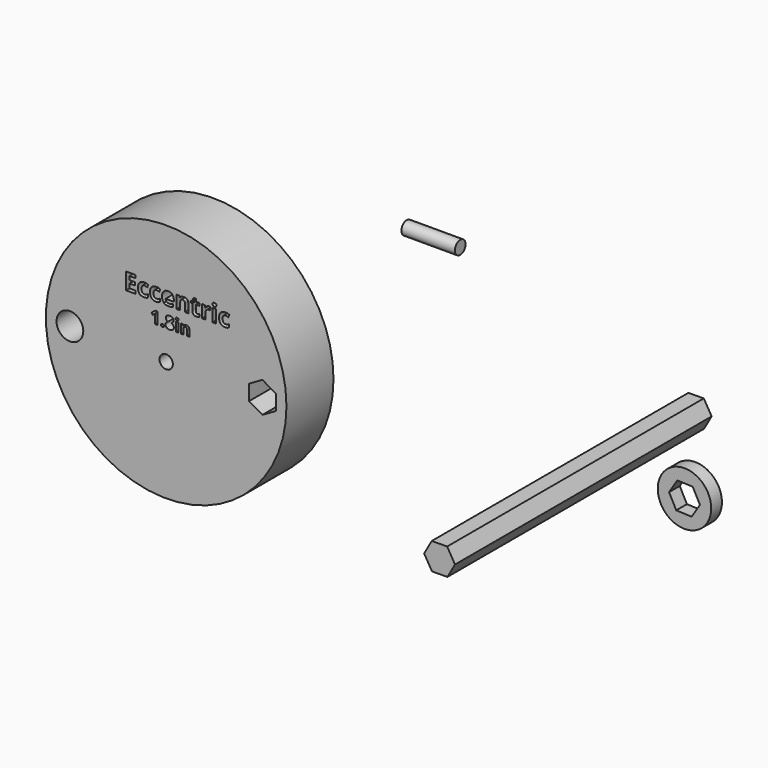
from build123d import *

# Parameters (mm, degrees)
F0_R     = 53.975
F0_R_2   = 3.175
F1_DEPTH = 3.175
F2_R     = 3.175
F3_DEPTH = 25.4
F4_R     = 57.15
F4_R_2   = 6.35
F4_R_3   = 3.175
F4_W     = 1.1925019706
F4_H     = 4.3720901209
F4_W_2   = 1.6525259421
F4_H_2   = 6.0586837794
F5_DEPTH = 27.94
F8_DEPTH = 152.4
F7_R     = 12.7
F9_DEPTH = 6.35


with BuildPart() as f1:
    # F0 (on Front) → F1 (new body)
    with BuildSketch(Plane.XZ):
        Circle(F0_R)
        with Locations((-22.86, -39.594681461)):
            Circle(F0_R_2, mode=Mode.SUBTRACT)
        with Locations((-22.86, 39.594681461)):
            Circle(F0_R_2, mode=Mode.SUBTRACT)
        Circle(F0_R_2, mode=Mode.SUBTRACT)
        with Locations((45.72, 0)):
            Circle(F0_R_2, mode=Mode.SUBTRACT)
    extrude(amount=F1_DEPTH)


with BuildPart() as f3:
    # F2 (on Right) → F3 (new body)
    with BuildSketch(Plane.YZ):
        with Locations((-54.81313169, 63.8662949204)):
            Circle(F2_R)
    extrude(amount=F3_DEPTH)


with BuildPart() as f5:
    # F4 (on Front) → F5 (new body)
    with BuildSketch(Plane.XZ):
        with Locations((-135.7941767349, -47.3413174404)):
            Circle(F4_R)
        with Locations((-181.5141767349, -47.3413174404)):
            Circle(F4_R_2, mode=Mode.SUBTRACT)
        Polygon((-150.3186446369, -22.2737410068), (-150.3186446369, -23.6609611051), (-154.8808647352, -23.6609611051), (-154.8808647352, -15.7382003187), (-150.3186446369, -15.7382003187), (-150.3186446369, -17.1150162662), (-153.2005943911, -17.1150162662), (-153.2005943911, -18.8542434645), (-150.518057526, -18.8542434645), (-150.518057526, -20.2310594121), (-153.2005943911, -20.2310594121), (-153.2005943911, -22.2737410068), align=None, mode=Mode.SUBTRACT)
        with BuildLine():
            Line((-139.948086505, -27.6000433853), (-139.948086505, -33.3172957499))
            Line((-139.948086505, -33.3172957499), (-141.1568555539, -33.3172957499))
            Line((-141.1568555539, -33.3172957499), (-141.1568555539, -30.008822287))
            Line((-141.1568555539, -30.008822287), (-141.1443424168, -29.4657521346))
            Line((-141.1443424168, -29.4657521346), (-141.125572711, -28.8713781199))
            add(Edge.make_bspline(
                [(-141.125572711, -28.8713781199), (-141.4258880027, -29.1716934115), (-141.5435114919, -29.2655419402)],
                knots=[0, 0, 0, 1, 1, 1], degree=2))
            Line((-141.5435114919, -29.2655419402), (-142.2004511924, -29.793596328))
            Line((-142.2004511924, -29.793596328), (-142.7835633837, -29.0665830595))
            Line((-142.7835633837, -29.0665830595), (-140.9416295949, -27.6000433853))
            Line((-140.9416295949, -27.6000433853), (-139.948086505, -27.6000433853))
        make_face(mode=Mode.SUBTRACT)
        with BuildLine():
            add(Edge.make_bspline(
                [(-138.0479666285, -33.2484734956), (-138.2275301467, -33.0745408892), (-138.2275301467, -32.7579585193)],
                knots=[0, 0, 0, 1, 1, 1], degree=2))
            add(Edge.make_bspline(
                [(-138.2275301467, -32.7579585193), (-138.2275301467, -32.4301143259), (-138.0517205697, -32.2618126312)],
                knots=[0, 0, 0, 1, 1, 1], degree=2))
            add(Edge.make_bspline(
                [(-138.0517205697, -32.2618126312), (-137.8759109927, -32.0935109365), (-137.5393076033, -32.0935109365)],
                knots=[0, 0, 0, 1, 1, 1], degree=2))
            add(Edge.make_bspline(
                [(-137.5393076033, -32.0935109365), (-137.2152173511, -32.0935109365), (-137.0375308035, -32.2655665723)],
                knots=[0, 0, 0, 1, 1, 1], degree=2))
            add(Edge.make_bspline(
                [(-137.0375308035, -32.2655665723), (-136.859844256, -32.4376222082), (-136.859844256, -32.7579585193)],
                knots=[0, 0, 0, 1, 1, 1], degree=2))
            add(Edge.make_bspline(
                [(-136.859844256, -32.7579585193), (-136.859844256, -33.0670330069), (-137.0394077741, -33.2447195545)],
                knots=[0, 0, 0, 1, 1, 1], degree=2))
            add(Edge.make_bspline(
                [(-137.0394077741, -33.2447195545), (-137.2189712922, -33.422406102), (-137.5393076033, -33.422406102)],
                knots=[0, 0, 0, 1, 1, 1], degree=2))
            add(Edge.make_bspline(
                [(-137.5393076033, -33.422406102), (-137.8684031104, -33.422406102), (-138.0479666285, -33.2484734956)],
                knots=[0, 0, 0, 1, 1, 1], degree=2))
        make_face(mode=Mode.SUBTRACT)
        with BuildLine():
            add(Edge.make_bspline(
                [(-145.3038439815, -23.6722322684), (-145.7130739105, -23.7702046879), (-146.3355889296, -23.7702046879)],
                knots=[0, 0, 0, 1, 1, 1], degree=2))
            add(Edge.make_bspline(
                [(-146.3355889296, -23.7702046879), (-149.1637839051, -23.7702046879), (-149.1637839051, -20.6645656928)],
                knots=[0, 0, 0, 1, 1, 1], degree=2))
            add(Edge.make_bspline(
                [(-149.1637839051, -20.6645656928), (-149.1637839051, -19.1195493083), (-148.3947437631, -18.3045575005)],
                knots=[0, 0, 0, 1, 1, 1], degree=2))
            add(Edge.make_bspline(
                [(-148.3947437631, -18.3045575005), (-147.6257036211, -17.4895656928), (-146.1899308193, -17.4895656928)],
                knots=[0, 0, 0, 1, 1, 1], degree=2))
            add(Edge.make_bspline(
                [(-146.1899308193, -17.4895656928), (-145.1391115948, -17.4895656928), (-144.3033114856, -17.9005296469)],
                knots=[0, 0, 0, 1, 1, 1], degree=2))
            Line((-144.3033114856, -17.9005296469), (-144.7923065703, -19.1802401876))
            add(Edge.make_bspline(
                [(-144.7923065703, -19.1802401876), (-145.1824622229, -19.0224439014), (-145.5179960842, -18.9218704443)],
                knots=[0, 0, 0, 1, 1, 1], degree=2))
            add(Edge.make_bspline(
                [(-145.5179960842, -18.9218704443), (-145.8535299455, -18.8212969871), (-146.1899308193, -18.8212969871)],
                knots=[0, 0, 0, 1, 1, 1], degree=2))
            add(Edge.make_bspline(
                [(-146.1899308193, -18.8212969871), (-147.4800455107, -18.8212969871), (-147.4800455107, -20.654161542)],
                knots=[0, 0, 0, 1, 1, 1], degree=2))
            add(Edge.make_bspline(
                [(-147.4800455107, -20.654161542), (-147.4800455107, -22.431537293), (-146.1899308193, -22.431537293)],
                knots=[0, 0, 0, 1, 1, 1], degree=2))
            add(Edge.make_bspline(
                [(-146.1899308193, -22.431537293), (-145.7130739105, -22.431537293), (-145.3064450192, -22.3040864465)],
                knots=[0, 0, 0, 1, 1, 1], degree=2))
            add(Edge.make_bspline(
                [(-145.3064450192, -22.3040864465), (-144.8998161279, -22.1766355999), (-144.4940542491, -21.9043936556)],
                knots=[0, 0, 0, 1, 1, 1], degree=2))
            Line((-144.4940542491, -21.9043936556), (-144.4940542491, -23.3193581559))
            add(Edge.make_bspline(
                [(-144.4940542491, -23.3193581559), (-144.8946140525, -23.574259849), (-145.3038439815, -23.6722322684)],
                knots=[0, 0, 0, 1, 1, 1], degree=2))
        make_face(mode=Mode.SUBTRACT)
        with BuildLine():
            add(Edge.make_bspline(
                [(-139.5971673021, -23.6722322684), (-140.0063972311, -23.7702046879), (-140.6289122502, -23.7702046879)],
                knots=[0, 0, 0, 1, 1, 1], degree=2))
            add(Edge.make_bspline(
                [(-140.6289122502, -23.7702046879), (-143.4571072256, -23.7702046879), (-143.4571072256, -20.6645656928)],
                knots=[0, 0, 0, 1, 1, 1], degree=2))
            add(Edge.make_bspline(
                [(-143.4571072256, -20.6645656928), (-143.4571072256, -19.1195493083), (-142.6880670836, -18.3045575005)],
                knots=[0, 0, 0, 1, 1, 1], degree=2))
            add(Edge.make_bspline(
                [(-142.6880670836, -18.3045575005), (-141.9190269416, -17.4895656928), (-140.4832541399, -17.4895656928)],
                knots=[0, 0, 0, 1, 1, 1], degree=2))
            add(Edge.make_bspline(
                [(-140.4832541399, -17.4895656928), (-139.4324349154, -17.4895656928), (-138.5966348062, -17.9005296469)],
                knots=[0, 0, 0, 1, 1, 1], degree=2))
            Line((-138.5966348062, -17.9005296469), (-139.0856298909, -19.1802401876))
            add(Edge.make_bspline(
                [(-139.0856298909, -19.1802401876), (-139.4757855435, -19.0224439014), (-139.8113194048, -18.9218704443)],
                knots=[0, 0, 0, 1, 1, 1], degree=2))
            add(Edge.make_bspline(
                [(-139.8113194048, -18.9218704443), (-140.1468532661, -18.8212969871), (-140.4832541399, -18.8212969871)],
                knots=[0, 0, 0, 1, 1, 1], degree=2))
            add(Edge.make_bspline(
                [(-140.4832541399, -18.8212969871), (-141.7733688313, -18.8212969871), (-141.7733688313, -20.654161542)],
                knots=[0, 0, 0, 1, 1, 1], degree=2))
            add(Edge.make_bspline(
                [(-141.7733688313, -20.654161542), (-141.7733688313, -22.431537293), (-140.4832541399, -22.431537293)],
                knots=[0, 0, 0, 1, 1, 1], degree=2))
            add(Edge.make_bspline(
                [(-140.4832541399, -22.431537293), (-140.0063972311, -22.431537293), (-139.5997683398, -22.3040864465)],
                knots=[0, 0, 0, 1, 1, 1], degree=2))
            add(Edge.make_bspline(
                [(-139.5997683398, -22.3040864465), (-139.1931394485, -22.1766355999), (-138.7873775697, -21.9043936556)],
                knots=[0, 0, 0, 1, 1, 1], degree=2))
            Line((-138.7873775697, -21.9043936556), (-138.7873775697, -23.3193581559))
            add(Edge.make_bspline(
                [(-138.7873775697, -23.3193581559), (-139.1879373731, -23.574259849), (-139.5971673021, -23.6722322684)],
                knots=[0, 0, 0, 1, 1, 1], degree=2))
        make_face(mode=Mode.SUBTRACT)
        with Locations((-135.7941767349, -47.3413174404)):
            Circle(F4_R_3, mode=Mode.SUBTRACT)
        with BuildLine():
            add(Edge.make_bspline(
                [(-135.4358492481, -27.9053639318), (-134.9278158797, -27.5262158761), (-134.1107080237, -27.5262158761)],
                knots=[0, 0, 0, 1, 1, 1], degree=2))
            add(Edge.make_bspline(
                [(-134.1107080237, -27.5262158761), (-133.2885949128, -27.5262158761), (-132.7861924562, -27.89973302)],
                knots=[0, 0, 0, 1, 1, 1], degree=2))
            add(Edge.make_bspline(
                [(-132.7861924562, -27.89973302), (-132.2837899995, -28.273250164), (-132.2837899995, -28.9064149039)],
                knots=[0, 0, 0, 1, 1, 1], degree=2))
            add(Edge.make_bspline(
                [(-132.2837899995, -28.9064149039), (-132.2837899995, -29.3443747042), (-132.5265448603, -29.6866090053)],
                knots=[0, 0, 0, 1, 1, 1], degree=2))
            add(Edge.make_bspline(
                [(-132.5265448603, -29.6866090053), (-132.769299721, -30.0288433064), (-133.3086159323, -30.2978757552)],
                knots=[0, 0, 0, 1, 1, 1], degree=2))
            add(Edge.make_bspline(
                [(-133.3086159323, -30.2978757552), (-132.6679433101, -30.6419870269), (-132.3882746947, -31.0155041709)],
                knots=[0, 0, 0, 1, 1, 1], degree=2))
            add(Edge.make_bspline(
                [(-132.3882746947, -31.0155041709), (-132.1086060794, -31.3890213148), (-132.1086060794, -31.8357403112)],
                knots=[0, 0, 0, 1, 1, 1], degree=2))
            add(Edge.make_bspline(
                [(-132.1086060794, -31.8357403112), (-132.1086060794, -32.5389786191), (-132.6598097709, -32.9675535666)],
                knots=[0, 0, 0, 1, 1, 1], degree=2))
            add(Edge.make_bspline(
                [(-132.6598097709, -32.9675535666), (-133.2110134625, -33.396128514), (-134.1107080237, -33.396128514)],
                knots=[0, 0, 0, 1, 1, 1], degree=2))
            add(Edge.make_bspline(
                [(-134.1107080237, -33.396128514), (-135.0491933101, -33.396128514), (-135.5847555802, -32.9969594389)],
                knots=[0, 0, 0, 1, 1, 1], degree=2))
            add(Edge.make_bspline(
                [(-135.5847555802, -32.9969594389), (-136.1203178503, -32.5977903637), (-136.1203178503, -31.867023154)],
                knots=[0, 0, 0, 1, 1, 1], degree=2))
            add(Edge.make_bspline(
                [(-136.1203178503, -31.867023154), (-136.1203178503, -31.3777594914), (-135.8600445975, -30.9986114357)],
                knots=[0, 0, 0, 1, 1, 1], degree=2))
            add(Edge.make_bspline(
                [(-135.8600445975, -30.9986114357), (-135.5997713448, -30.61946338), (-135.0254183495, -30.3291585981)],
                knots=[0, 0, 0, 1, 1, 1], degree=2))
            add(Edge.make_bspline(
                [(-135.0254183495, -30.3291585981), (-135.5146820121, -30.0213354241), (-135.7292823143, -29.6690906133)],
                knots=[0, 0, 0, 1, 1, 1], degree=2))
            add(Edge.make_bspline(
                [(-135.7292823143, -29.6690906133), (-135.9438826164, -29.3168458025), (-135.9438826164, -28.8989070216)],
                knots=[0, 0, 0, 1, 1, 1], degree=2))
            add(Edge.make_bspline(
                [(-135.9438826164, -28.8989070216), (-135.9438826164, -28.2845119875), (-135.4358492481, -27.9053639318)],
                knots=[0, 0, 0, 1, 1, 1], degree=2))
        make_face(mode=Mode.SUBTRACT)
        with Locations((-130.6089065917, -31.1312506895)):
            Rectangle(F4_W, F4_H, mode=Mode.SUBTRACT)
        with BuildLine():
            add(Edge.make_bspline(
                [(-130.6070296212, -28.4021354767), (-131.2564614394, -28.4021354767), (-131.2564614394, -27.8152693443)],
                knots=[0, 0, 0, 1, 1, 1], degree=2))
            add(Edge.make_bspline(
                [(-131.2564614394, -27.8152693443), (-131.2564614394, -27.232157153), (-130.6070296212, -27.232157153)],
                knots=[0, 0, 0, 1, 1, 1], degree=2))
            add(Edge.make_bspline(
                [(-130.6070296212, -27.232157153), (-129.957597803, -27.232157153), (-129.957597803, -27.8152693443)],
                knots=[0, 0, 0, 1, 1, 1], degree=2))
            add(Edge.make_bspline(
                [(-129.957597803, -27.8152693443), (-129.957597803, -28.093060989), (-130.1196429291, -28.2475982329)],
                knots=[0, 0, 0, 1, 1, 1], degree=2))
            add(Edge.make_bspline(
                [(-130.1196429291, -28.2475982329), (-130.2816880552, -28.4021354767), (-130.6070296212, -28.4021354767)],
                knots=[0, 0, 0, 1, 1, 1], degree=2))
        make_face(mode=Mode.SUBTRACT)
        with BuildLine():
            Line((-124.7258551598, -30.4668031068), (-124.7258551598, -33.3172957499))
            Line((-124.7258551598, -33.3172957499), (-125.9183571304, -33.3172957499))
            Line((-125.9183571304, -33.3172957499), (-125.9183571304, -30.7633644573))
            add(Edge.make_bspline(
                [(-125.9183571304, -30.7633644573), (-125.9183571304, -30.2903678729), (-126.0866588251, -30.0538695807)],
                knots=[0, 0, 0, 1, 1, 1], degree=2))
            add(Edge.make_bspline(
                [(-126.0866588251, -30.0538695807), (-126.2549605198, -29.8173712886), (-126.622846752, -29.8173712886)],
                knots=[0, 0, 0, 1, 1, 1], degree=2))
            add(Edge.make_bspline(
                [(-126.622846752, -29.8173712886), (-127.1233722381, -29.8173712886), (-127.3461060794, -30.1514720505)],
                knots=[0, 0, 0, 1, 1, 1], degree=2))
            add(Edge.make_bspline(
                [(-127.3461060794, -30.1514720505), (-127.5688399207, -30.4855728125), (-127.5688399207, -31.2601360022)],
                knots=[0, 0, 0, 1, 1, 1], degree=2))
            Line((-127.5688399207, -31.2601360022), (-127.5688399207, -33.3172957499))
            Line((-127.5688399207, -33.3172957499), (-128.7613418913, -33.3172957499))
            Line((-128.7613418913, -33.3172957499), (-128.7613418913, -28.9452056291))
            Line((-128.7613418913, -28.9452056291), (-127.8503855066, -28.9452056291))
            Line((-127.8503855066, -28.9452056291), (-127.6902173511, -29.5045428598))
            Line((-127.6902173511, -29.5045428598), (-127.6238977242, -29.5045428598))
            add(Edge.make_bspline(
                [(-127.6238977242, -29.5045428598), (-127.4236875297, -29.1879604898), (-127.0739453463, -29.0259153637)],
                knots=[0, 0, 0, 1, 1, 1], degree=2))
            add(Edge.make_bspline(
                [(-127.0739453463, -29.0259153637), (-126.724203163, -28.8638702376), (-126.2787354803, -28.8638702376)],
                knots=[0, 0, 0, 1, 1, 1], degree=2))
            add(Edge.make_bspline(
                [(-126.2787354803, -28.8638702376), (-125.5154341141, -28.8638702376), (-125.1206446369, -29.2761781068)],
                knots=[0, 0, 0, 1, 1, 1], degree=2))
            add(Edge.make_bspline(
                [(-125.1206446369, -29.2761781068), (-124.7258551598, -29.6884859759), (-124.7258551598, -30.4668031068)],
                knots=[0, 0, 0, 1, 1, 1], degree=2))
        make_face(mode=Mode.SUBTRACT)
        with BuildLine():
            add(Edge.make_bspline(
                [(-133.4379100656, -23.6644291554), (-133.9303732005, -23.7702046879), (-134.6413235009, -23.7702046879)],
                knots=[0, 0, 0, 1, 1, 1], degree=2))
            add(Edge.make_bspline(
                [(-134.6413235009, -23.7702046879), (-136.1031066795, -23.7702046879), (-136.9267686129, -22.9621489806)],
                knots=[0, 0, 0, 1, 1, 1], degree=2))
            add(Edge.make_bspline(
                [(-136.9267686129, -22.9621489806), (-137.7504305462, -22.1540932733), (-137.7504305462, -20.6749698435)],
                knots=[0, 0, 0, 1, 1, 1], degree=2))
            add(Edge.make_bspline(
                [(-137.7504305462, -20.6749698435), (-137.7504305462, -19.1524957856), (-136.9891935173, -18.3210307392)],
                knots=[0, 0, 0, 1, 1, 1], degree=2))
            add(Edge.make_bspline(
                [(-136.9891935173, -18.3210307392), (-136.2279564883, -17.4895656928), (-134.8840870181, -17.4895656928)],
                knots=[0, 0, 0, 1, 1, 1], degree=2))
            add(Edge.make_bspline(
                [(-134.8840870181, -17.4895656928), (-133.6009084272, -17.4895656928), (-132.885623064, -18.2204572821)],
                knots=[0, 0, 0, 1, 1, 1], degree=2))
            add(Edge.make_bspline(
                [(-132.885623064, -18.2204572821), (-132.1703377008, -18.9513488714), (-132.1703377008, -20.2414635628)],
                knots=[0, 0, 0, 1, 1, 1], degree=2))
            Line((-132.1703377008, -20.2414635628), (-132.1703377008, -21.0443171947))
            Line((-132.1703377008, -21.0443171947), (-136.0770963027, -21.0443171947))
            add(Edge.make_bspline(
                [(-136.0770963027, -21.0443171947), (-136.0493519007, -21.7483313946), (-135.659196248, -22.1436891226)],
                knots=[0, 0, 0, 1, 1, 1], degree=2))
            add(Edge.make_bspline(
                [(-135.659196248, -22.1436891226), (-135.2690405954, -22.5390468506), (-134.5650263955, -22.5390468506)],
                knots=[0, 0, 0, 1, 1, 1], degree=2))
            add(Edge.make_bspline(
                [(-134.5650263955, -22.5390468506), (-134.0170744567, -22.5390468506), (-133.5298133971, -22.4254682051)],
                knots=[0, 0, 0, 1, 1, 1], degree=2))
            add(Edge.make_bspline(
                [(-133.5298133971, -22.4254682051), (-133.0425523376, -22.3118895595), (-132.51194065, -22.0621899418)],
                knots=[0, 0, 0, 1, 1, 1], degree=2))
            Line((-132.51194065, -22.0621899418), (-132.51194065, -23.3419004825))
            add(Edge.make_bspline(
                [(-132.51194065, -23.3419004825), (-132.9454469307, -23.5586536229), (-133.4379100656, -23.6644291554)],
                knots=[0, 0, 0, 1, 1, 1], degree=2))
        make_face(mode=Mode.SUBTRACT)
        with BuildLine():
            Line((-125.2342372093, -19.7108518752), (-125.2342372093, -23.6609611051))
            Line((-125.2342372093, -23.6609611051), (-126.8867631514, -23.6609611051))
            Line((-126.8867631514, -23.6609611051), (-126.8867631514, -20.1218158293))
            add(Edge.make_bspline(
                [(-126.8867631514, -20.1218158293), (-126.8867631514, -19.4663543329), (-127.1199895304, -19.1386235846)],
                knots=[0, 0, 0, 1, 1, 1], degree=2))
            add(Edge.make_bspline(
                [(-127.1199895304, -19.1386235846), (-127.3532159094, -18.8108928364), (-127.8630192956, -18.8108928364)],
                knots=[0, 0, 0, 1, 1, 1], degree=2))
            add(Edge.make_bspline(
                [(-127.8630192956, -18.8108928364), (-128.5566293447, -18.8108928364), (-128.8652858166, -19.2738775442)],
                knots=[0, 0, 0, 1, 1, 1], degree=2))
            add(Edge.make_bspline(
                [(-128.8652858166, -19.2738775442), (-129.1739422885, -19.736862252), (-129.1739422885, -20.8102238031)],
                knots=[0, 0, 0, 1, 1, 1], degree=2))
            Line((-129.1739422885, -20.8102238031), (-129.1739422885, -23.6609611051))
            Line((-129.1739422885, -23.6609611051), (-130.8264682306, -23.6609611051))
            Line((-130.8264682306, -23.6609611051), (-130.8264682306, -17.6022773258))
            Line((-130.8264682306, -17.6022773258), (-129.5640979411, -17.6022773258))
            Line((-129.5640979411, -17.6022773258), (-129.3421427254, -18.3773865557))
            Line((-129.3421427254, -18.3773865557), (-129.2502393939, -18.3773865557))
            add(Edge.make_bspline(
                [(-129.2502393939, -18.3773865557), (-128.9727953742, -17.9386781996), (-128.4881353524, -17.7141219462)],
                knots=[0, 0, 0, 1, 1, 1], degree=2))
            add(Edge.make_bspline(
                [(-128.4881353524, -17.7141219462), (-128.0034753305, -17.4895656928), (-127.3861623868, -17.4895656928)],
                knots=[0, 0, 0, 1, 1, 1], degree=2))
            add(Edge.make_bspline(
                [(-127.3861623868, -17.4895656928), (-126.3284070618, -17.4895656928), (-125.7813221355, -18.0609269708)],
                knots=[0, 0, 0, 1, 1, 1], degree=2))
            add(Edge.make_bspline(
                [(-125.7813221355, -18.0609269708), (-125.2342372093, -18.6322882488), (-125.2342372093, -19.7108518752)],
                knots=[0, 0, 0, 1, 1, 1], degree=2))
        make_face(mode=Mode.SUBTRACT)
        with BuildLine():
            add(Edge.make_bspline(
                [(-121.5043491699, -22.2841451575), (-121.3066703059, -22.4523455945), (-120.9806735828, -22.4523455945)],
                knots=[0, 0, 0, 1, 1, 1], degree=2))
            add(Edge.make_bspline(
                [(-120.9806735828, -22.4523455945), (-120.5471673021, -22.4523455945), (-119.9402585091, -22.2633368561)],
                knots=[0, 0, 0, 1, 1, 1], degree=2))
            Line((-119.9402585091, -22.2633368561), (-119.9402585091, -23.4927606682))
            add(Edge.make_bspline(
                [(-119.9402585091, -23.4927606682), (-120.5575714528, -23.7702046879), (-121.4575304916, -23.7702046879)],
                knots=[0, 0, 0, 1, 1, 1], degree=2))
            add(Edge.make_bspline(
                [(-121.4575304916, -23.7702046879), (-122.4493928619, -23.7702046879), (-122.901973419, -23.2682044148)],
                knots=[0, 0, 0, 1, 1, 1], degree=2))
            add(Edge.make_bspline(
                [(-122.901973419, -23.2682044148), (-123.3545539761, -22.7662041417), (-123.3545539761, -21.7639376207)],
                knots=[0, 0, 0, 1, 1, 1], degree=2))
            Line((-123.3545539761, -21.7639376207), (-123.3545539761, -18.8438393137))
            Line((-123.3545539761, -18.8438393137), (-124.1452694321, -18.8438393137))
            Line((-124.1452694321, -18.8438393137), (-124.1452694321, -18.1450271892))
            Line((-124.1452694321, -18.1450271892), (-123.2349062426, -17.591873175))
            Line((-123.2349062426, -17.591873175), (-122.7580493338, -16.3121626343))
            Line((-122.7580493338, -16.3121626343), (-121.7020280339, -16.3121626343))
            Line((-121.7020280339, -16.3121626343), (-121.7020280339, -17.6022773258))
            Line((-121.7020280339, -17.6022773258), (-120.0061514638, -17.6022773258))
            Line((-120.0061514638, -17.6022773258), (-120.0061514638, -18.8438393137))
            Line((-120.0061514638, -18.8438393137), (-121.7020280339, -18.8438393137))
            Line((-121.7020280339, -18.8438393137), (-121.7020280339, -21.7639376207))
            add(Edge.make_bspline(
                [(-121.7020280339, -21.7639376207), (-121.7020280339, -22.1159447206), (-121.5043491699, -22.2841451575)],
                knots=[0, 0, 0, 1, 1, 1], degree=2))
        make_face(mode=Mode.SUBTRACT)
        with BuildLine():
            add(Edge.make_bspline(
                [(-116.3777038941, -17.8008232023), (-115.8982459477, -17.4895656928), (-115.3346877827, -17.4895656928)],
                knots=[0, 0, 0, 1, 1, 1], degree=2))
            add(Edge.make_bspline(
                [(-115.3346877827, -17.4895656928), (-114.9982869089, -17.4895656928), (-114.7763316931, -17.5381183962)],
                knots=[0, 0, 0, 1, 1, 1], degree=2))
            Line((-114.7763316931, -17.5381183962), (-114.901181502, -19.0866028309))
            add(Edge.make_bspline(
                [(-114.901181502, -19.0866028309), (-115.1023284163, -19.0328480521), (-115.3884425615, -19.0328480521)],
                knots=[0, 0, 0, 1, 1, 1], degree=2))
            add(Edge.make_bspline(
                [(-115.3884425615, -19.0328480521), (-116.1791580176, -19.0328480521), (-116.6213344239, -19.4394769435)],
                knots=[0, 0, 0, 1, 1, 1], degree=2))
            add(Edge.make_bspline(
                [(-116.6213344239, -19.4394769435), (-117.0635108302, -19.8461058348), (-117.0635108302, -20.5778644366)],
                knots=[0, 0, 0, 1, 1, 1], degree=2))
            Line((-117.0635108302, -20.5778644366), (-117.0635108302, -23.6609611051))
            Line((-117.0635108302, -23.6609611051), (-118.7160367723, -23.6609611051))
            Line((-118.7160367723, -23.6609611051), (-118.7160367723, -17.6022773258))
            Line((-118.7160367723, -17.6022773258), (-117.4640706336, -17.6022773258))
            Line((-117.4640706336, -17.6022773258), (-117.2195730913, -18.621884098))
            Line((-117.2195730913, -18.621884098), (-117.1398079356, -18.621884098))
            add(Edge.make_bspline(
                [(-117.1398079356, -18.621884098), (-116.8571618406, -18.1120807119), (-116.3777038941, -17.8008232023)],
                knots=[0, 0, 0, 1, 1, 1], degree=2))
        make_face(mode=Mode.SUBTRACT)
        with Locations((-112.8506967942, -20.6316192154)):
            Rectangle(F4_W_2, F4_H_2, mode=Mode.SUBTRACT)
        with BuildLine():
            add(Edge.make_bspline(
                [(-106.7980821028, -23.6722322684), (-107.2073120318, -23.7702046879), (-107.8298270509, -23.7702046879)],
                knots=[0, 0, 0, 1, 1, 1], degree=2))
            add(Edge.make_bspline(
                [(-107.8298270509, -23.7702046879), (-110.6580220263, -23.7702046879), (-110.6580220263, -20.6645656928)],
                knots=[0, 0, 0, 1, 1, 1], degree=2))
            add(Edge.make_bspline(
                [(-110.6580220263, -20.6645656928), (-110.6580220263, -19.1195493083), (-109.8889818843, -18.3045575005)],
                knots=[0, 0, 0, 1, 1, 1], degree=2))
            add(Edge.make_bspline(
                [(-109.8889818843, -18.3045575005), (-109.1199417423, -17.4895656928), (-107.6841689406, -17.4895656928)],
                knots=[0, 0, 0, 1, 1, 1], degree=2))
            add(Edge.make_bspline(
                [(-107.6841689406, -17.4895656928), (-106.6333497161, -17.4895656928), (-105.7975496069, -17.9005296469)],
                knots=[0, 0, 0, 1, 1, 1], degree=2))
            Line((-105.7975496069, -17.9005296469), (-106.2865446915, -19.1802401876))
            add(Edge.make_bspline(
                [(-106.2865446915, -19.1802401876), (-106.6767003442, -19.0224439014), (-107.0122342054, -18.9218704443)],
                knots=[0, 0, 0, 1, 1, 1], degree=2))
            add(Edge.make_bspline(
                [(-107.0122342054, -18.9218704443), (-107.3477680667, -18.8212969871), (-107.6841689406, -18.8212969871)],
                knots=[0, 0, 0, 1, 1, 1], degree=2))
            add(Edge.make_bspline(
                [(-107.6841689406, -18.8212969871), (-108.974283632, -18.8212969871), (-108.974283632, -20.654161542)],
                knots=[0, 0, 0, 1, 1, 1], degree=2))
            add(Edge.make_bspline(
                [(-108.974283632, -20.654161542), (-108.974283632, -22.431537293), (-107.6841689406, -22.431537293)],
                knots=[0, 0, 0, 1, 1, 1], degree=2))
            add(Edge.make_bspline(
                [(-107.6841689406, -22.431537293), (-107.2073120318, -22.431537293), (-106.8006831404, -22.3040864465)],
                knots=[0, 0, 0, 1, 1, 1], degree=2))
            add(Edge.make_bspline(
                [(-106.8006831404, -22.3040864465), (-106.3940542491, -22.1766355999), (-105.9882923704, -21.9043936556)],
                knots=[0, 0, 0, 1, 1, 1], degree=2))
            Line((-105.9882923704, -21.9043936556), (-105.9882923704, -23.3193581559))
            add(Edge.make_bspline(
                [(-105.9882923704, -23.3193581559), (-106.3888521738, -23.574259849), (-106.7980821028, -23.6722322684)],
                knots=[0, 0, 0, 1, 1, 1], degree=2))
        make_face(mode=Mode.SUBTRACT)
        Polygon((-83.7241767349, -43.6751432311), (-83.7241767349, -51.0074916498), (-90.0741767349, -54.6736658591), (-96.4241767349, -51.0074916498), (-96.4241767349, -43.6751432311), (-90.0741767349, -40.0089690217), align=None, mode=Mode.SUBTRACT)
        with BuildLine():
            add(Edge.make_bspline(
                [(-112.8480957565, -16.8497104224), (-113.7480547953, -16.8497104224), (-113.7480547953, -16.0364526398)],
                knots=[0, 0, 0, 1, 1, 1], degree=2))
            add(Edge.make_bspline(
                [(-113.7480547953, -16.0364526398), (-113.7480547953, -15.2283969325), (-112.8480957565, -15.2283969325)],
                knots=[0, 0, 0, 1, 1, 1], degree=2))
            add(Edge.make_bspline(
                [(-112.8480957565, -15.2283969325), (-111.9481367177, -15.2283969325), (-111.9481367177, -16.0364526398)],
                knots=[0, 0, 0, 1, 1, 1], degree=2))
            add(Edge.make_bspline(
                [(-111.9481367177, -16.0364526398), (-111.9481367177, -16.4214062171), (-112.1726929711, -16.6355583198)],
                knots=[0, 0, 0, 1, 1, 1], degree=2))
            add(Edge.make_bspline(
                [(-112.1726929711, -16.6355583198), (-112.3972492246, -16.8497104224), (-112.8480957565, -16.8497104224)],
                knots=[0, 0, 0, 1, 1, 1], degree=2))
        make_face(mode=Mode.SUBTRACT)
    extrude(amount=F5_DEPTH)


with BuildPart() as f8:
    # F6 (on Front) → F8 (new body)
    with BuildSketch(Plane.XZ):
        Polygon((97.3884491516, -10.8994558303), (100.9986332248, -4.5174573744), (97.2767524716, 1.8000529733), (89.9446876453, 1.735564865), (86.3345035722, -4.6464335909), (90.0563843253, -10.9639439386), align=None)
    extrude(amount=F8_DEPTH)


with BuildPart() as f9:
    # F7 (on Front) → F9 (new body)
    with BuildSketch(Plane.XZ):
        with Locations((93.1781083345, -38.8422012329)):
            Circle(F7_R)
        Polygon((97.0910526938, -32.6412174582), (100.5047899916, -39.1304185643), (96.5918456323, -45.331402339), (89.2651639752, -45.0431850076), (85.8514266775, -38.5539839015), (89.7643710368, -32.3530001268), align=None, mode=Mode.SUBTRACT)
    extrude(amount=F9_DEPTH)


solid = Compound([f3.part, f5.part, f8.part, f9.part])
